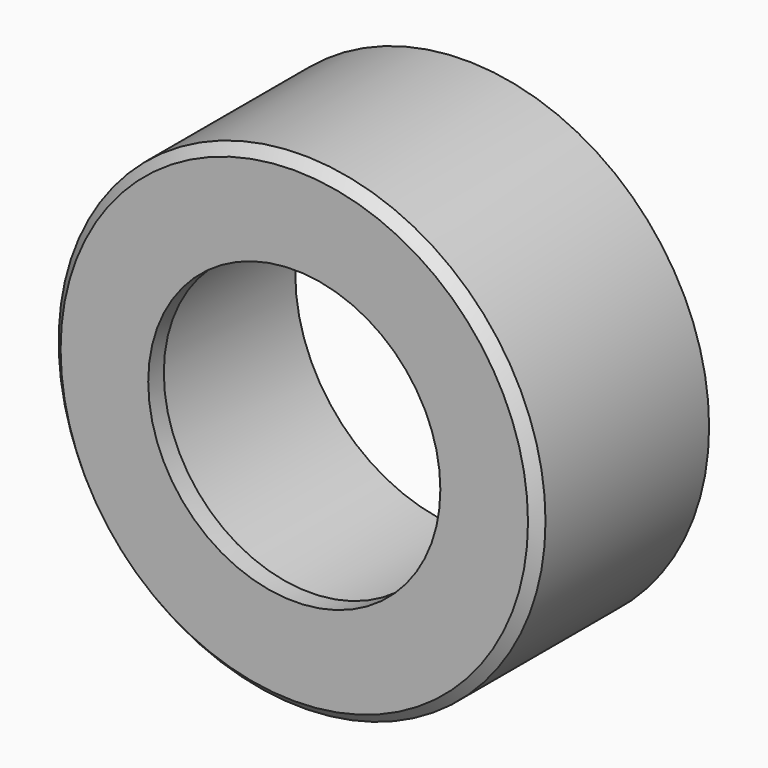
from build123d import *

# Parameters (mm, degrees)
F0_R     = 25
F0_R_2   = 17.5
F1_DEPTH = 20
F2_R     = 25
F2_R_2   = 15
F3_DEPTH = 2
F4_SIZE  = 1


with BuildPart() as f1:
    # F0 (on Front) → F1 (new body)
    with BuildSketch(Plane.XZ):
        Circle(F0_R)
        Circle(F0_R_2, mode=Mode.SUBTRACT)
    extrude(amount=F1_DEPTH)

    # F2 (on face) → F3 (join)
    with BuildSketch(Plane.XZ.offset(20)):
        Circle(F2_R)
        Circle(F2_R_2, mode=Mode.SUBTRACT)
    extrude(amount=F3_DEPTH)

    # F4
    f4_edges = [f1.edges().sort_by_distance(p)[0] for p in [
        (-25, -22, 0),
    ]]
    chamfer(f4_edges, length=F4_SIZE)


solid = f1.part
